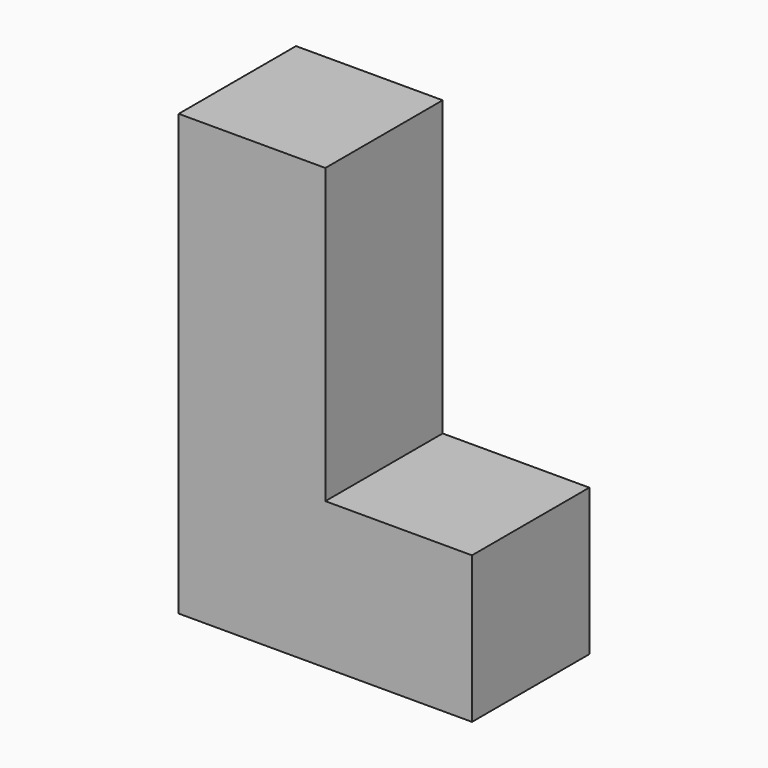
from build123d import *

# Parameters (mm, degrees)
F0_W     = 50.8
F0_H     = 50.8
F1_DEPTH = 25.4


with BuildPart() as f1:
    # F0 (on Front) → F1 (new body, symmetric)
    with BuildSketch(Plane.XZ):
        Polygon((-44.907803, 112.563095), (-44.907803, -39.836905), (5.892197, -39.836905), (5.892197, 10.963095), (5.892197, 112.563095), align=None)
        with Locations((31.292197, -14.436905)):
            Rectangle(F0_W, F0_H)
    extrude(amount=F1_DEPTH, both=True)


solid = f1.part
